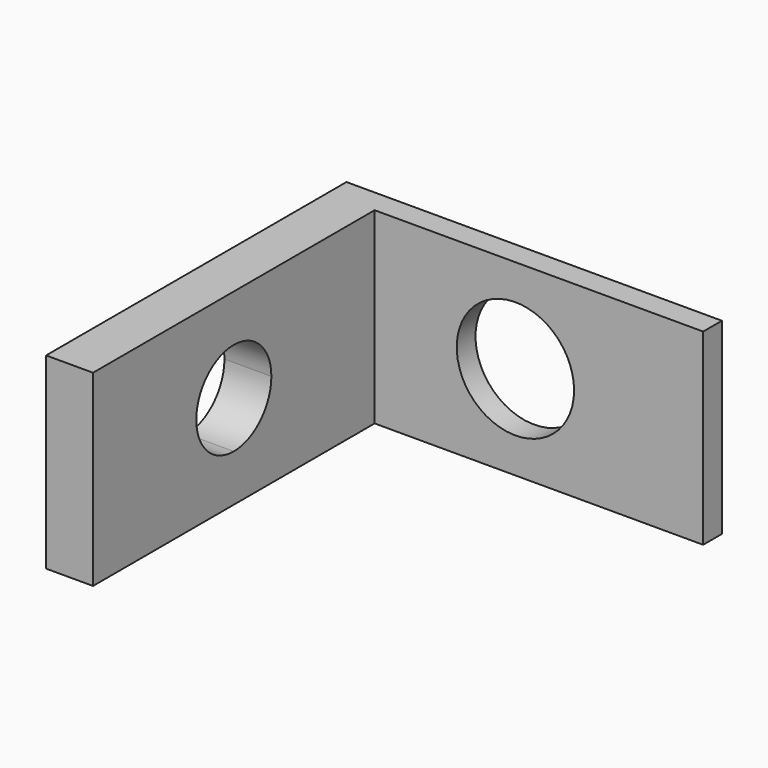
from build123d import *

# Parameters (mm, degrees)
F0_W     = 80
F0_H     = 40
F0_R     = 12.5
F1_DEPTH = 5
F2_W     = 10
F2_H     = 40
F3_DEPTH = 75
F5_DEPTH = 10.001


with BuildPart() as f1:
    # F0 (on Front) → F1 (new body)
    with BuildSketch(Plane.XZ):
        Rectangle(F0_W, F0_H)
        Circle(F0_R, mode=Mode.SUBTRACT)
    extrude(amount=F1_DEPTH)

    # F2 (on face) → F3 (join)
    with BuildSketch(Plane.XZ.offset(5)):
        with Locations((-35, 0)):
            Rectangle(F2_W, F2_H)
    extrude(amount=F3_DEPTH)

    # F4 (on face) → F5 (cut, through all)
    with BuildSketch(Plane.YZ.offset(-30)):
        with BuildLine():
            ThreePointArc((-32.5, 0), (-35.4289321881, 7.0710678119), (-42.5, 10))
            Line((-42.5, 10), (-42.5, -10))
            ThreePointArc((-42.5, -10), (-35.4289321881, -7.0710678119), (-32.5, 0))
        make_face()
        with BuildLine():
            Line((-42.5, -10), (-42.5, 10))
            ThreePointArc((-42.5, 10), (-52.5, 0), (-42.5, -10))
        make_face()
    extrude(amount=-F5_DEPTH, mode=Mode.SUBTRACT)


solid = f1.part
